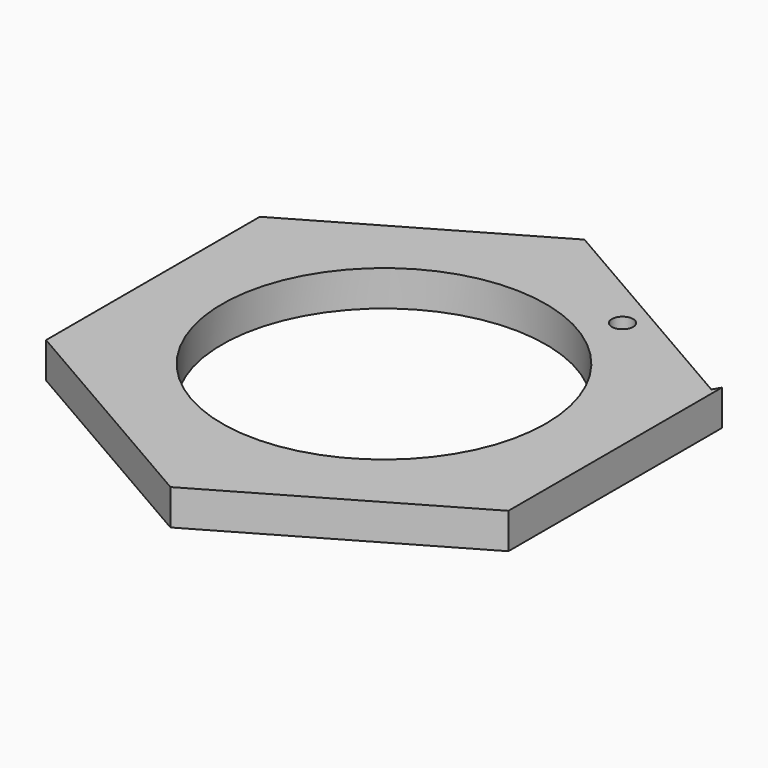
from build123d import *

# Parameters (mm, degrees)
SKETCH_R   = 9.1
SKETCH_R_2 = 0.6
PAD_DEPTH  = 2


with BuildPart() as part:
    # Sketch → Pad (new body)
    with BuildSketch(Plane.XY):
        Polygon((-0.50397, 14.713397), (-12.984903, 7.508821), (-12.99, -7.5), (0, -14.99967), (12.99, -7.5), (12.99, 7.5), (12.74, 7.066987), align=None)
        Circle(SKETCH_R, mode=Mode.SUBTRACT)
        with Locations((5.747722, 9.571406)):
            Circle(SKETCH_R_2, mode=Mode.SUBTRACT)
    extrude(amount=PAD_DEPTH)


solid = part.part
